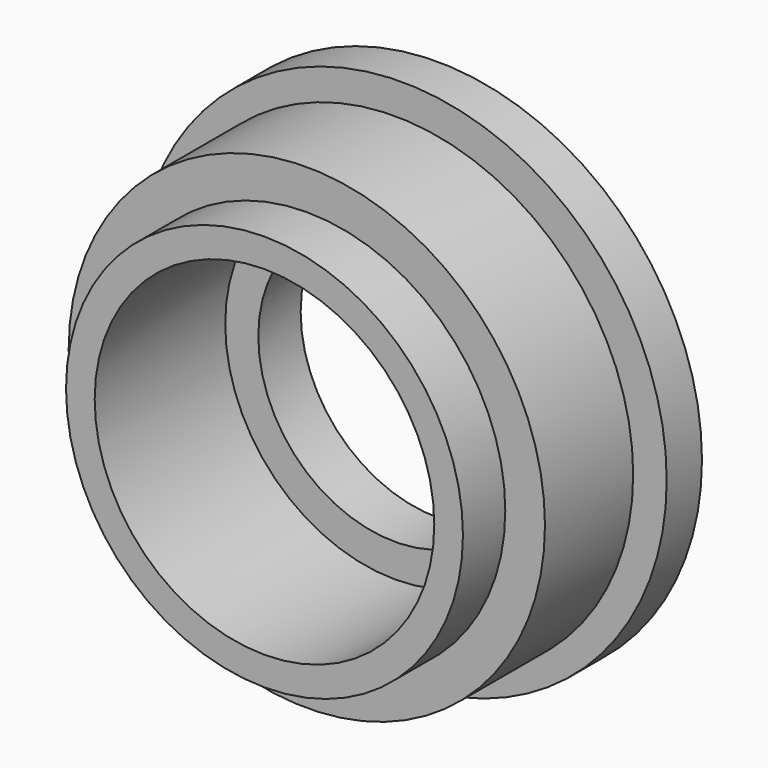
from build123d import *

# Parameters (mm, degrees)
F0_R     = 10.8
F0_R_2   = 9
F1_DEPTH = 2.5
F0_R_3   = 7.7
F2_DEPTH = 4.9
F3_R     = 7.7
F3_R_2   = 6.2
F4_DEPTH = 2.4
F5_R     = 12
F5_R_2   = 10
F6_DEPTH = 2


with BuildPart() as f1:
    # F0 (on Front) → F1 (new body, symmetric)
    with BuildSketch(Plane.XZ):
        Circle(F0_R)
        Circle(F0_R_2, mode=Mode.SUBTRACT)
    extrude(amount=F1_DEPTH, both=True)

    # F0 (on Front) → F2 (join, symmetric)
    with BuildSketch(Plane.XZ):
        Circle(F0_R_2)
        Circle(F0_R_3, mode=Mode.SUBTRACT)
    extrude(amount=F2_DEPTH, both=True)

    # F3 (on face) → F4 (join)
    with BuildSketch(Plane(origin=(0, 4.9, 0), x_dir=(-1, 0, 0), z_dir=(0, 1, 0))):
        Circle(F3_R)
        Circle(F3_R_2, mode=Mode.SUBTRACT)
    extrude(amount=-F4_DEPTH)


with BuildPart() as f6:
    # F5 (on face) → F6 (new body)
    with BuildSketch(Plane(origin=(0, 4.9, 0), x_dir=(-1, 0, 0), z_dir=(0, 1, 0))):
        Circle(F5_R)
        Circle(F5_R_2, mode=Mode.SUBTRACT)
    extrude(amount=-F6_DEPTH)


solid = Compound([f1.part, f6.part])
